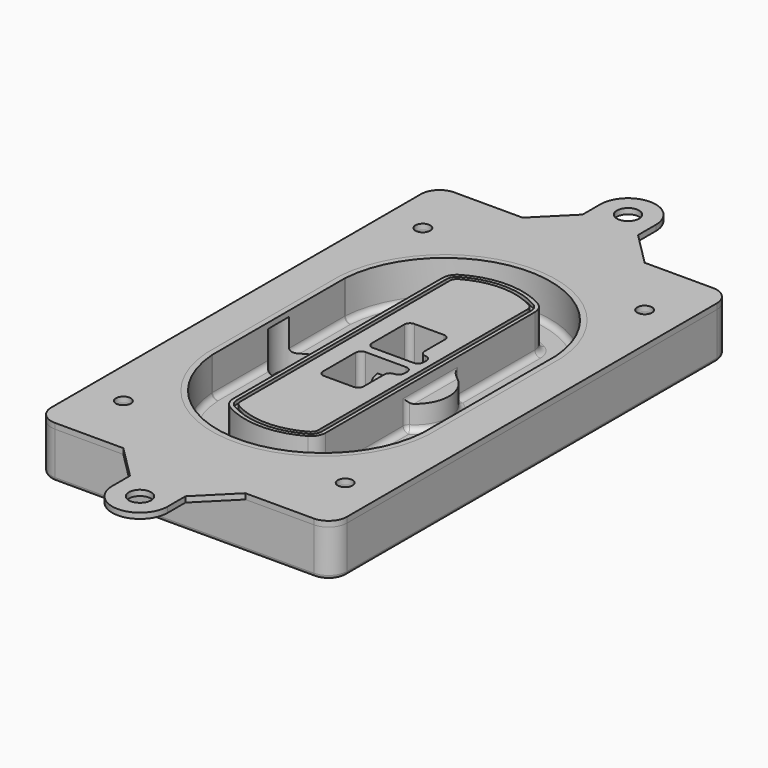
from build123d import *

# Parameters (mm, degrees)
F0_R      = 4
F1_DEPTH  = 25
F2_DEPTH  = 3
F3_DEPTH  = 18
F5_DEPTH  = 21
F6_DEPTH  = 2
F8_DEPTH  = 20
F9_DEPTH  = 16
F10_DEPTH = 25
F7_R      = 6
F7_R_2    = 4
F11_DEPTH = 6
F13_DEPTH = 9
F14_R     = 3
F15_R     = 2
F16_R     = 6
F16_R_2   = 4
F17_DEPTH = 3


with BuildPart() as f1:
    # F0 (on Top) → F1 (new body)
    with BuildSketch(Plane.XY):
        with BuildLine():
            ThreePointArc((-80, -125), (-77.0710678119, -132.0710678119), (-70, -135))
            Line((-70, -135), (70, -135))
            ThreePointArc((70, -135), (77.0710678119, -132.0710678119), (80, -125))
            Line((80, -125), (80, 125))
            ThreePointArc((80, 125), (77.0710678119, 132.0710678119), (70, 135))
            Line((70, 135), (-70, 135))
            ThreePointArc((-70, 135), (-77.0710678119, 132.0710678119), (-80, 125))
            Line((-80, 125), (-80, -125))
        make_face()
        with Locations((-60, -101.25)):
            Circle(F0_R, mode=Mode.SUBTRACT)
        with Locations((60, -101.25)):
            Circle(F0_R, mode=Mode.SUBTRACT)
        with Locations((-60, 101.25)):
            Circle(F0_R, mode=Mode.SUBTRACT)
        with BuildLine():
            ThreePointArc((-64, 44.6627429245), (-63.991269098, 45.1571001106), (-63.9650872818, 45.650840699))
            ThreePointArc((-63.9650872818, 45.650840699), (0, 105.25), (63.9650872818, 45.650840699))
            ThreePointArc((63.9650872818, 45.650840699), (63.991269098, 45.1571001106), (64, 44.6627429245))
            Line((64, 44.6627429245), (64, -44.6627429245))
            ThreePointArc((64, -44.6627429245), (63.991269098, -45.1571001106), (63.9650872818, -45.650840699))
            ThreePointArc((63.9650872818, -45.650840699), (0, -105.25), (-63.9650872818, -45.650840699))
            ThreePointArc((-63.9650872818, -45.650840699), (-63.991269098, -45.1571001106), (-64, -44.6627429245))
            Line((-64, -44.6627429245), (-64, 44.6627429245))
        make_face(mode=Mode.SUBTRACT)
        with Locations((60, 101.25)):
            Circle(F0_R, mode=Mode.SUBTRACT)
        with BuildLine():
            ThreePointArc((63.9650872818, 45.650840699), (0, 105.25), (-63.9650872818, 45.650840699))
            ThreePointArc((-63.9650872818, 45.650840699), (-63.991269098, 45.1571001106), (-64, 44.6627429245))
            Line((-64, 44.6627429245), (-64, -44.6627429245))
            ThreePointArc((-64, -44.6627429245), (-63.991269098, -45.1571001106), (-63.9650872818, -45.650840699))
            ThreePointArc((-63.9650872818, -45.650840699), (0, -105.25), (63.9650872818, -45.650840699))
            ThreePointArc((63.9650872818, -45.650840699), (63.991269098, -45.1571001106), (64, -44.6627429245))
            Line((64, -44.6627429245), (64, 44.6627429245))
            ThreePointArc((64, 44.6627429245), (63.991269098, 45.1571001106), (63.9650872818, 45.650840699))
        make_face()
        with BuildLine():
            Line((-60, -44.6627429245), (-60, 44.6627429245))
            ThreePointArc((-60, 44.6627429245), (-59.9937636414, 45.0158552003), (-59.9750623441, 45.3685270491))
            ThreePointArc((-59.9750623441, 45.3685270491), (0, 101.25), (59.9750623441, 45.3685270491))
            ThreePointArc((59.9750623441, 45.3685270491), (59.9937636414, 45.0158552003), (60, 44.6627429245))
            Line((60, 44.6627429245), (60, -44.6627429245))
            ThreePointArc((60, -44.6627429245), (59.9937636414, -45.0158552003), (59.9750623441, -45.3685270491))
            ThreePointArc((59.9750623441, -45.3685270491), (0, -101.25), (-59.9750623441, -45.3685270491))
            ThreePointArc((-59.9750623441, -45.3685270491), (-59.9937636414, -45.0158552003), (-60, -44.6627429245))
        make_face(mode=Mode.SUBTRACT)
        with BuildLine():
            ThreePointArc((-59.9750623441, 45.3685270491), (-59.9937636414, 45.0158552003), (-60, 44.6627429245))
            Line((-60, 44.6627429245), (-60, -44.6627429245))
            ThreePointArc((-60, -44.6627429245), (-59.9937636414, -45.0158552003), (-59.9750623441, -45.3685270491))
            ThreePointArc((-59.9750623441, -45.3685270491), (0, -101.25), (59.9750623441, -45.3685270491))
            ThreePointArc((59.9750623441, -45.3685270491), (59.9937636414, -45.0158552003), (60, -44.6627429245))
            Line((60, -44.6627429245), (60, 44.6627429245))
            ThreePointArc((60, 44.6627429245), (59.9937636414, 45.0158552003), (59.9750623441, 45.3685270491))
            ThreePointArc((59.9750623441, 45.3685270491), (0, 101.25), (-59.9750623441, 45.3685270491))
        make_face()
        with BuildLine():
            ThreePointArc((56.9825436409, 45.1567918117), (56.995634549, 44.9099215176), (57, 44.6627429245))
            Line((57, 44.6627429245), (57, -44.6627429245))
            ThreePointArc((57, -44.6627429245), (56.995634549, -44.9099215176), (56.9825436409, -45.1567918117))
            ThreePointArc((56.9825436409, -45.1567918117), (0, -98.25), (-56.9825436409, -45.1567918117))
            ThreePointArc((-56.9825436409, -45.1567918117), (-56.995634549, -44.9099215176), (-57, -44.6627429245))
            Line((-57, -44.6627429245), (-57, 44.6627429245))
            ThreePointArc((-57, 44.6627429245), (-56.995634549, 44.9099215176), (-56.9825436409, 45.1567918117))
            ThreePointArc((-56.9825436409, 45.1567918117), (0, 98.25), (56.9825436409, 45.1567918117))
        make_face(mode=Mode.SUBTRACT)
        with BuildLine():
            Line((57, -44.6627429245), (57, 44.6627429245))
            ThreePointArc((57, 44.6627429245), (56.995634549, 44.9099215176), (56.9825436409, 45.1567918117))
            ThreePointArc((56.9825436409, 45.1567918117), (0, 98.25), (-56.9825436409, 45.1567918117))
            ThreePointArc((-56.9825436409, 45.1567918117), (-56.995634549, 44.9099215176), (-57, 44.6627429245))
            Line((-57, 44.6627429245), (-57, -44.6627429245))
            ThreePointArc((-57, -44.6627429245), (-56.995634549, -44.9099215176), (-56.9825436409, -45.1567918117))
            ThreePointArc((-56.9825436409, -45.1567918117), (0, -98.25), (56.9825436409, -45.1567918117))
            ThreePointArc((56.9825436409, -45.1567918117), (56.995634549, -44.9099215176), (57, -44.6627429245))
        make_face()
    extrude(amount=-F1_DEPTH)

    # F0 (on Top) → F2 (join)
    with BuildSketch(Plane.XY):
        with BuildLine():
            ThreePointArc((-59.9750623441, 45.3685270491), (-59.9937636414, 45.0158552003), (-60, 44.6627429245))
            Line((-60, 44.6627429245), (-60, -44.6627429245))
            ThreePointArc((-60, -44.6627429245), (-59.9937636414, -45.0158552003), (-59.9750623441, -45.3685270491))
            ThreePointArc((-59.9750623441, -45.3685270491), (0, -101.25), (59.9750623441, -45.3685270491))
            ThreePointArc((59.9750623441, -45.3685270491), (59.9937636414, -45.0158552003), (60, -44.6627429245))
            Line((60, -44.6627429245), (60, 44.6627429245))
            ThreePointArc((60, 44.6627429245), (59.9937636414, 45.0158552003), (59.9750623441, 45.3685270491))
            ThreePointArc((59.9750623441, 45.3685270491), (0, 101.25), (-59.9750623441, 45.3685270491))
        make_face()
        with BuildLine():
            ThreePointArc((56.9825436409, 45.1567918117), (56.995634549, 44.9099215176), (57, 44.6627429245))
            Line((57, 44.6627429245), (57, -44.6627429245))
            ThreePointArc((57, -44.6627429245), (56.995634549, -44.9099215176), (56.9825436409, -45.1567918117))
            ThreePointArc((56.9825436409, -45.1567918117), (0, -98.25), (-56.9825436409, -45.1567918117))
            ThreePointArc((-56.9825436409, -45.1567918117), (-56.995634549, -44.9099215176), (-57, -44.6627429245))
            Line((-57, -44.6627429245), (-57, 44.6627429245))
            ThreePointArc((-57, 44.6627429245), (-56.995634549, 44.9099215176), (-56.9825436409, 45.1567918117))
            ThreePointArc((-56.9825436409, 45.1567918117), (0, 98.25), (56.9825436409, 45.1567918117))
        make_face(mode=Mode.SUBTRACT)
    extrude(amount=F2_DEPTH)

    # F0 (on Top) → F3 (cut)
    with BuildSketch(Plane.XY):
        with BuildLine():
            Line((57, -44.6627429245), (57, 44.6627429245))
            ThreePointArc((57, 44.6627429245), (56.995634549, 44.9099215176), (56.9825436409, 45.1567918117))
            ThreePointArc((56.9825436409, 45.1567918117), (0, 98.25), (-56.9825436409, 45.1567918117))
            ThreePointArc((-56.9825436409, 45.1567918117), (-56.995634549, 44.9099215176), (-57, 44.6627429245))
            Line((-57, 44.6627429245), (-57, -44.6627429245))
            ThreePointArc((-57, -44.6627429245), (-56.995634549, -44.9099215176), (-56.9825436409, -45.1567918117))
            ThreePointArc((-56.9825436409, -45.1567918117), (0, -98.25), (56.9825436409, -45.1567918117))
            ThreePointArc((56.9825436409, -45.1567918117), (56.995634549, -44.9099215176), (57, -44.6627429245))
        make_face()
    extrude(amount=-F3_DEPTH, mode=Mode.SUBTRACT)

    # F4 (on face) → F5 (join, through all)
    with BuildSketch(Plane.XY.offset(3)):
        with BuildLine():
            ThreePointArc((-25, -70.7141132851), (-23.9239722661, -74.7214325959), (-20.9853479853, -77.6507552274))
            ThreePointArc((-20.9853479853, -77.6507552274), (0, -83.25), (20.9853479853, -77.6507552274))
            ThreePointArc((20.9853479853, -77.6507552274), (23.9239722661, -74.7214325959), (25, -70.7141132851))
            Line((25, -70.7141132851), (25, 70.7141132851))
            ThreePointArc((25, 70.7141132851), (23.9239722661, 74.7214325959), (20.9853479853, 77.6507552274))
            ThreePointArc((20.9853479853, 77.6507552274), (0, 83.25), (-20.9853479853, 77.6507552274))
            ThreePointArc((-20.9853479853, 77.6507552274), (-23.9239722661, 74.7214325959), (-25, 70.7141132851))
            Line((-25, 70.7141132851), (-25, -70.7141132851))
        make_face()
        with BuildLine():
            ThreePointArc((19.989010989, 75.9165947419), (22.1929791996, 73.7196027682), (23, 70.7141132851))
            Line((23, 70.7141132851), (23, -70.7141132851))
            ThreePointArc((23, -70.7141132851), (22.1929791996, -73.7196027682), (19.989010989, -75.9165947419))
            ThreePointArc((19.989010989, -75.9165947419), (0, -81.25), (-19.989010989, -75.9165947419))
            ThreePointArc((-19.989010989, -75.9165947419), (-22.1929791996, -73.7196027682), (-23, -70.7141132851))
            Line((-23, -70.7141132851), (-23, 70.7141132851))
            ThreePointArc((-23, 70.7141132851), (-22.1929791996, 73.7196027682), (-19.989010989, 75.9165947419))
            ThreePointArc((-19.989010989, 75.9165947419), (0, 81.25), (19.989010989, 75.9165947419))
        make_face(mode=Mode.SUBTRACT)
        with BuildLine():
            Line((23, -70.7141132851), (23, 70.7141132851))
            ThreePointArc((23, 70.7141132851), (22.1929791996, 73.7196027682), (19.989010989, 75.9165947419))
            ThreePointArc((19.989010989, 75.9165947419), (0, 81.25), (-19.989010989, 75.9165947419))
            ThreePointArc((-19.989010989, 75.9165947419), (-22.1929791996, 73.7196027682), (-23, 70.7141132851))
            Line((-23, 70.7141132851), (-23, -70.7141132851))
            ThreePointArc((-23, -70.7141132851), (-22.1929791996, -73.7196027682), (-19.989010989, -75.9165947419))
            ThreePointArc((-19.989010989, -75.9165947419), (0, -81.25), (19.989010989, -75.9165947419))
            ThreePointArc((19.989010989, -75.9165947419), (22.1929791996, -73.7196027682), (23, -70.7141132851))
        make_face()
        with BuildLine():
            ThreePointArc((18.9926739927, 74.1824342563), (20.461986133, 72.7177729405), (21, 70.7141132851))
            Line((21, 70.7141132851), (21, -70.7141132851))
            ThreePointArc((21, -70.7141132851), (20.461986133, -72.7177729405), (18.9926739927, -74.1824342563))
            ThreePointArc((18.9926739927, -74.1824342563), (0, -79.25), (-18.9926739927, -74.1824342563))
            ThreePointArc((-18.9926739927, -74.1824342563), (-20.461986133, -72.7177729405), (-21, -70.7141132851))
            Line((-21, -70.7141132851), (-21, 70.7141132851))
            ThreePointArc((-21, 70.7141132851), (-20.461986133, 72.7177729405), (-18.9926739927, 74.1824342563))
            ThreePointArc((-18.9926739927, 74.1824342563), (0, 79.25), (18.9926739927, 74.1824342563))
        make_face(mode=Mode.SUBTRACT)
        with BuildLine():
            Line((21, -70.7141132851), (21, 70.7141132851))
            ThreePointArc((21, 70.7141132851), (20.461986133, 72.7177729405), (18.9926739927, 74.1824342563))
            ThreePointArc((18.9926739927, 74.1824342563), (0, 79.25), (-18.9926739927, 74.1824342563))
            ThreePointArc((-18.9926739927, 74.1824342563), (-20.461986133, 72.7177729405), (-21, 70.7141132851))
            Line((-21, 70.7141132851), (-21, -70.7141132851))
            ThreePointArc((-21, -70.7141132851), (-20.461986133, -72.7177729405), (-18.9926739927, -74.1824342563))
            ThreePointArc((-18.9926739927, -74.1824342563), (0, -79.25), (18.9926739927, -74.1824342563))
            ThreePointArc((18.9926739927, -74.1824342563), (20.461986133, -72.7177729405), (21, -70.7141132851))
        make_face()
        with BuildLine():
            Line((-8, -2.5), (14, -2.5))
            ThreePointArc((14, -2.5), (16.1213203436, -3.3786796564), (17, -5.5))
            Line((17, -5.5), (17, -7.5))
            ThreePointArc((17, -7.5), (16.1213203436, -9.6213203436), (14, -10.5))
            ThreePointArc((14, -10.5), (11.8786796564, -11.3786796564), (11, -13.5))
            Line((11, -13.5), (11, -27.5))
            ThreePointArc((11, -27.5), (10.1213203436, -29.6213203436), (8, -30.5))
            Line((8, -30.5), (-8, -30.5))
            ThreePointArc((-8, -30.5), (-10.1213203436, -29.6213203436), (-11, -27.5))
            Line((-11, -27.5), (-11, -5.5))
            ThreePointArc((-11, -5.5), (-10.1213203436, -3.3786796564), (-8, -2.5))
        make_face(mode=Mode.SUBTRACT)
        with BuildLine():
            ThreePointArc((-8, 2.5), (-10.1213203436, 3.3786796564), (-11, 5.5))
            Line((-11, 5.5), (-11, 27.5))
            ThreePointArc((-11, 27.5), (-10.1213203436, 29.6213203436), (-8, 30.5))
            Line((-8, 30.5), (8, 30.5))
            ThreePointArc((8, 30.5), (10.1213203436, 29.6213203436), (11, 27.5))
            Line((11, 27.5), (11, 13.5))
            ThreePointArc((11, 13.5), (11.8786796564, 11.3786796564), (14, 10.5))
            ThreePointArc((14, 10.5), (16.1213203436, 9.6213203436), (17, 7.5))
            Line((17, 7.5), (17, 5.5))
            ThreePointArc((17, 5.5), (16.1213203436, 3.3786796564), (14, 2.5))
            Line((14, 2.5), (-8, 2.5))
        make_face(mode=Mode.SUBTRACT)
    extrude(amount=-F5_DEPTH)

    # F4 (on face) → F6 (cut)
    with BuildSketch(Plane.XY.offset(3)):
        with BuildLine():
            Line((23, -70.7141132851), (23, 70.7141132851))
            ThreePointArc((23, 70.7141132851), (22.1929791996, 73.7196027682), (19.989010989, 75.9165947419))
            ThreePointArc((19.989010989, 75.9165947419), (0, 81.25), (-19.989010989, 75.9165947419))
            ThreePointArc((-19.989010989, 75.9165947419), (-22.1929791996, 73.7196027682), (-23, 70.7141132851))
            Line((-23, 70.7141132851), (-23, -70.7141132851))
            ThreePointArc((-23, -70.7141132851), (-22.1929791996, -73.7196027682), (-19.989010989, -75.9165947419))
            ThreePointArc((-19.989010989, -75.9165947419), (0, -81.25), (19.989010989, -75.9165947419))
            ThreePointArc((19.989010989, -75.9165947419), (22.1929791996, -73.7196027682), (23, -70.7141132851))
        make_face()
        with BuildLine():
            ThreePointArc((18.9926739927, 74.1824342563), (20.461986133, 72.7177729405), (21, 70.7141132851))
            Line((21, 70.7141132851), (21, -70.7141132851))
            ThreePointArc((21, -70.7141132851), (20.461986133, -72.7177729405), (18.9926739927, -74.1824342563))
            ThreePointArc((18.9926739927, -74.1824342563), (0, -79.25), (-18.9926739927, -74.1824342563))
            ThreePointArc((-18.9926739927, -74.1824342563), (-20.461986133, -72.7177729405), (-21, -70.7141132851))
            Line((-21, -70.7141132851), (-21, 70.7141132851))
            ThreePointArc((-21, 70.7141132851), (-20.461986133, 72.7177729405), (-18.9926739927, 74.1824342563))
            ThreePointArc((-18.9926739927, 74.1824342563), (0, 79.25), (18.9926739927, 74.1824342563))
        make_face(mode=Mode.SUBTRACT)
    extrude(amount=-F6_DEPTH, mode=Mode.SUBTRACT)

    # F7 (on face) → F8 (join)
    with BuildSketch(Plane(origin=(0, 0, -25), x_dir=(1, 0, 0), z_dir=(0, 0, -1))):
        with BuildLine():
            ThreePointArc((3.28842436, 0), (16.7567035675, 13.4682792075), (30.224982775, 0))
            Line((30.224982775, 0), (35.224982775, 0))
            ThreePointArc((35.224982775, 0), (16.7567035675, 18.4682792075), (-1.71157564, 0))
            Line((-1.71157564, 0), (3.28842436, 0))
        make_face()
        with BuildLine():
            Line((3.28842436, 0), (30.224982775, 0))
            ThreePointArc((30.224982775, 0), (16.7567035675, 13.4682792075), (3.28842436, 0))
        make_face()
        with BuildLine():
            ThreePointArc((3.28842436, 0), (16.7567035675, -13.4682792075), (30.224982775, 0))
            Line((30.224982775, 0), (3.28842436, 0))
        make_face()
        with BuildLine():
            Line((35.224982775, 0), (30.224982775, 0))
            ThreePointArc((30.224982775, 0), (16.7567035675, -13.4682792075), (3.28842436, 0))
            Line((3.28842436, 0), (-1.71157564, 0))
            ThreePointArc((-1.71157564, 0), (16.7567035675, -18.4682792075), (35.224982775, 0))
        make_face()
    extrude(amount=-F8_DEPTH)

    # F7 (on face) → F9 (cut)
    with BuildSketch(Plane(origin=(0, 0, -25), x_dir=(1, 0, 0), z_dir=(0, 0, -1))):
        with BuildLine():
            Line((3.28842436, 0), (30.224982775, 0))
            ThreePointArc((30.224982775, 0), (16.7567035675, 13.4682792075), (3.28842436, 0))
        make_face()
        with BuildLine():
            ThreePointArc((3.28842436, 0), (16.7567035675, -13.4682792075), (30.224982775, 0))
            Line((30.224982775, 0), (3.28842436, 0))
        make_face()
    extrude(amount=-F9_DEPTH, mode=Mode.SUBTRACT)

    # F7 (on face) → F10 (cut)
    with BuildSketch(Plane(origin=(0, 0, -25), x_dir=(1, 0, 0), z_dir=(0, 0, -1))):
        with BuildLine():
            Line((-59.0318229325, 0), (-32.0952645175, 0))
            ThreePointArc((-32.0952645175, 0), (-45.563543725, 13.4682792075), (-59.0318229325, 0))
        make_face()
        with BuildLine():
            ThreePointArc((-59.0318229325, 0), (-45.563543725, -13.4682792075), (-32.0952645175, 0))
            Line((-32.0952645175, 0), (-59.0318229325, 0))
        make_face()
    extrude(amount=-F10_DEPTH, mode=Mode.SUBTRACT)

    # F7 (on face) → F11 (cut)
    with BuildSketch(Plane(origin=(0, 0, -25), x_dir=(1, 0, 0), z_dir=(0, 0, -1))):
        with Locations((60, -101.25)):
            Circle(F7_R)
        with Locations((60, -101.25)):
            Circle(F7_R_2, mode=Mode.SUBTRACT)
        with Locations((60, -101.25)):
            Circle(F7_R)
        with Locations((60, -101.25)):
            Circle(F7_R_2, mode=Mode.SUBTRACT)
        with Locations((-60, -101.25)):
            Circle(F7_R)
        with Locations((-60, -101.25)):
            Circle(F7_R_2, mode=Mode.SUBTRACT)
        with Locations((-60, -101.25)):
            Circle(F7_R)
        with Locations((-60, -101.25)):
            Circle(F7_R_2, mode=Mode.SUBTRACT)
        with Locations((-60, 101.25)):
            Circle(F7_R)
        with Locations((-60, 101.25)):
            Circle(F7_R_2, mode=Mode.SUBTRACT)
        with Locations((-60, 101.25)):
            Circle(F7_R)
        with Locations((-60, 101.25)):
            Circle(F7_R_2, mode=Mode.SUBTRACT)
        with Locations((60, 101.25)):
            Circle(F7_R)
        with Locations((60, 101.25)):
            Circle(F7_R_2, mode=Mode.SUBTRACT)
        with Locations((60, 101.25)):
            Circle(F7_R)
        with Locations((60, 101.25)):
            Circle(F7_R_2, mode=Mode.SUBTRACT)
    extrude(amount=-F11_DEPTH, mode=Mode.SUBTRACT)

    # F12 (on face) → F13 (cut, through all)
    with BuildSketch(Plane(origin=(0, 0, -9), x_dir=(1, 0, 0), z_dir=(0, 0, -1))):
        with BuildLine():
            Line((11, 13.5), (11, 17.5481537753))
            ThreePointArc((11, 17.5481537753), (2.5696536419, 11.8239143813), (-1.5415842455, 2.5))
            Line((-1.5415842455, 2.5), (3.5224848595, 2.5))
            ThreePointArc((3.5224848595, 2.5), (6.1857188154, 8.3455872281), (11.2536447004, 12.2927168648))
            ThreePointArc((11.2536447004, 12.2927168648), (11.0640958889, 12.8831798879), (11, 13.5))
        make_face()
        with BuildLine():
            ThreePointArc((11.2536447004, -12.2927168648), (6.1857188154, -8.3455872281), (3.5224848595, -2.5))
            Line((3.5224848595, -2.5), (-1.5415842455, -2.5))
            ThreePointArc((-1.5415842455, -2.5), (2.5696536419, -11.8239143813), (11, -17.5481537753))
            Line((11, -17.5481537753), (11, -13.5))
            ThreePointArc((11, -13.5), (11.0640958889, -12.8831798879), (11.2536447004, -12.2927168648))
        make_face()
        with BuildLine():
            ThreePointArc((11.2536447004, 12.2927168648), (6.1857188154, 8.3455872281), (3.5224848595, 2.5))
            Line((3.5224848595, 2.5), (14, 2.5))
            ThreePointArc((14, 2.5), (16.1213203436, 3.3786796564), (17, 5.5))
            Line((17, 5.5), (17, 7.5))
            ThreePointArc((17, 7.5), (16.1213203436, 9.6213203436), (14, 10.5))
            ThreePointArc((14, 10.5), (12.3601599782, 10.9878446101), (11.2536447004, 12.2927168648))
        make_face()
        with BuildLine():
            Line((14, -2.5), (3.5224848595, -2.5))
            ThreePointArc((3.5224848595, -2.5), (6.1857188154, -8.3455872281), (11.2536447004, -12.2927168648))
            ThreePointArc((11.2536447004, -12.2927168648), (12.3601599782, -10.9878446101), (14, -10.5))
            ThreePointArc((14, -10.5), (16.1213203436, -9.6213203436), (17, -7.5))
            Line((17, -7.5), (17, -5.5))
            ThreePointArc((17, -5.5), (16.1213203436, -3.3786796564), (14, -2.5))
        make_face()
    extrude(amount=F13_DEPTH, mode=Mode.SUBTRACT)

    # F14
    f14_edges = [f1.edges().sort_by_distance(p)[0] for p in [
        (-57, -25.888126, -18),
        (-57, 25.888126, -18),
        (25, 0, -5),
        (25, 16.526506, -11.5),
        (25, -16.526506, -11.5),
        (25, -43.62031, -18),
        (35.224983, 0, -18),
    ]]
    fillet(f14_edges, radius=F14_R)

    # F15
    f15_edges = [f1.edges().sort_by_distance(p)[0] for p in [
        (0, -135, -25),
    ]]
    fillet(f15_edges, radius=F15_R)


with BuildPart() as f17:
    # F16 (on face) → F17 (new body, through all)
    with BuildSketch(Plane.XY):
        with BuildLine():
            Line((33, -135), (-33, -135))
            Line((-33, -135), (-15, -153))
            Line((-15, -153), (-15, -165))
            ThreePointArc((-15, -165), (0, -180), (15, -165))
            Line((15, -165), (15, -153))
            Line((15, -153), (33, -135))
        make_face()
        with Locations((0, -165)):
            Circle(F16_R, mode=Mode.SUBTRACT)
        with BuildLine():
            ThreePointArc((15, 165), (0, 180), (-15, 165))
            Line((-15, 165), (-15, 153))
            Line((-15, 153), (-33, 135))
            Line((-33, 135), (33, 135))
            Line((33, 135), (15, 153))
            Line((15, 153), (15, 165))
        make_face()
        with Locations((0, 165)):
            Circle(F16_R, mode=Mode.SUBTRACT)
        with BuildLine():
            Line((33, 135), (-33, 135))
            Line((-33, 135), (-70, 135))
            ThreePointArc((-70, 135), (-77.0710678119, 132.0710678119), (-80, 125))
            Line((-80, 125), (-80, -125))
            ThreePointArc((-80, -125), (-77.0710678119, -132.0710678119), (-70, -135))
            Line((-70, -135), (-33, -135))
            Line((-33, -135), (33, -135))
            Line((33, -135), (70, -135))
            ThreePointArc((70, -135), (77.0710678119, -132.0710678119), (80, -125))
            Line((80, -125), (80, 125))
            ThreePointArc((80, 125), (77.0710678119, 132.0710678119), (70, 135))
            Line((70, 135), (33, 135))
        make_face()
        with Locations((-60, -101.25)):
            Circle(F16_R_2, mode=Mode.SUBTRACT)
        with Locations((60, -101.25)):
            Circle(F16_R_2, mode=Mode.SUBTRACT)
        with Locations((-60, 101.25)):
            Circle(F16_R_2, mode=Mode.SUBTRACT)
        with BuildLine():
            ThreePointArc((-60, 44.6627429245), (-59.9937636414, 45.0158552003), (-59.9750623441, 45.3685270491))
            ThreePointArc((-59.9750623441, 45.3685270491), (0, 101.25), (59.9750623441, 45.3685270491))
            ThreePointArc((59.9750623441, 45.3685270491), (59.9937636414, 45.0158552003), (60, 44.6627429245))
            Line((60, 44.6627429245), (60, -44.6627429245))
            ThreePointArc((60, -44.6627429245), (59.9937636414, -45.0158552003), (59.9750623441, -45.3685270491))
            ThreePointArc((59.9750623441, -45.3685270491), (0, -101.25), (-59.9750623441, -45.3685270491))
            ThreePointArc((-59.9750623441, -45.3685270491), (-59.9937636414, -45.0158552003), (-60, -44.6627429245))
            Line((-60, -44.6627429245), (-60, 44.6627429245))
        make_face(mode=Mode.SUBTRACT)
        with Locations((60, 101.25)):
            Circle(F16_R_2, mode=Mode.SUBTRACT)
    extrude(amount=F17_DEPTH)


solid = Compound([f1.part, f17.part])
